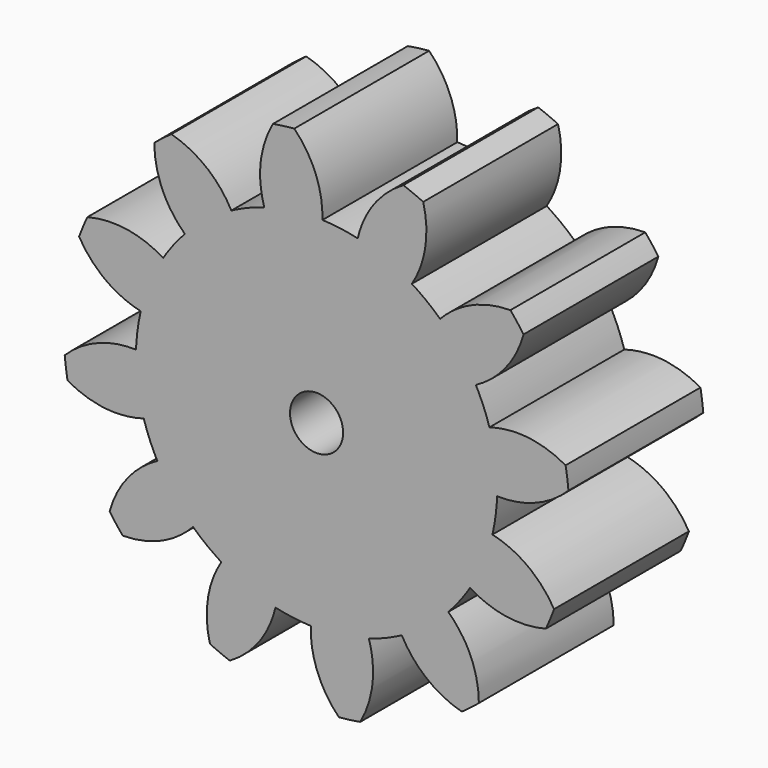
from build123d import *

# Parameters (mm, degrees)
F2_DEPTH = 12.7
F3_COUNT = 12
F3_ANGLE = 330
F5_D     = 8


with BuildPart() as f2:
    # F1 (on Front) → F2 (new body, symmetric)
    with BuildSketch(Plane.XZ):
        with BuildLine():
            Line((0, 27.2142857143), (0, 32.6571428571))
            Line((0, 32.6571428571), (-4.1027982168, 31.163846429))
            Line((-4.1027982168, 31.163846429), (-3.5521770883, 26.9814637274))
            ThreePointArc((-3.5521770883, 26.9814637274), (-1.7798994455, 27.1560178396), (0, 27.2142857143))
        make_face()
        with BuildLine():
            Line((-3.5521770883, 26.9814637274), (-4.1027982168, 31.163846429))
            Line((-4.1027982168, 31.163846429), (-8.4908538679, 29.5667247857))
            ThreePointArc((-8.4908538679, 29.5667247857), (-8.2952422965, 27.7884140488), (-7.8836733992, 26.0473614916))
            ThreePointArc((-7.8836733992, 26.0473614916), (-5.7369683492, 26.6027167992), (-3.5521770883, 26.9814637274))
        make_face()
        with BuildLine():
            Line((-4.1027982168, 31.163846429), (-4.2626125059, 32.3777564729))
            ThreePointArc((-4.2626125059, 32.3777564729), (-6.3710925161, 32.0296450143), (-8.4522905301, 31.5443776985))
            ThreePointArc((-8.4522905301, 31.5443776985), (-8.5050911091, 30.5562048457), (-8.4908538679, 29.5667247857))
            Line((-8.4908538679, 29.5667247857), (-4.1027982168, 31.163846429))
        make_face()
        with BuildLine():
            ThreePointArc((-8.4522905301, 31.5443776985), (-6.3710925161, 32.0296450143), (-4.2626125059, 32.3777564729))
            Line((-4.2626125059, 32.3777564729), (-4.2993944212, 32.6571428571))
            Line((-4.2993944212, 32.6571428571), (-8.3117038653, 32.6571428571))
            ThreePointArc((-8.3117038653, 32.6571428571), (-8.3926831774, 32.1021103437), (-8.4522905301, 31.5443776985))
        make_face()
        with BuildLine():
            Line((-4.1027982168, 31.163846429), (0, 32.6571428571))
            ThreePointArc((0, 32.6571428571), (-2.1358793346, 32.5872214075), (-4.2626125059, 32.3777564729))
            Line((-4.2626125059, 32.3777564729), (-4.1027982168, 31.163846429))
        make_face()
        with BuildLine():
            ThreePointArc((-4.2626125059, 32.3777564729), (-2.1358793346, 32.5872214075), (0, 32.6571428571))
            Line((0, 32.6571428571), (-4.2993944212, 32.6571428571))
            Line((-4.2993944212, 32.6571428571), (-4.2626125059, 32.3777564729))
        make_face()
        with BuildLine():
            ThreePointArc((0, 32.6571428571), (-1.3922286837, 35.486786515), (-3.3594239194, 37.9516043262))
            ThreePointArc((-3.3594239194, 37.9516043262), (-4.1671816864, 37.8714219009), (-4.9730479236, 37.7740492183))
            Line((-4.9730479236, 37.7740492183), (-4.2993944212, 32.6571428571))
            Line((-4.2993944212, 32.6571428571), (0, 32.6571428571))
        make_face()
        with BuildLine():
            Line((-4.2993944212, 32.6571428571), (-4.9730479236, 37.7740492183))
            ThreePointArc((-4.9730479236, 37.7740492183), (-5.7766568393, 37.6595304772), (-6.5776436666, 37.5279176587))
            ThreePointArc((-6.5776436666, 37.5279176587), (-7.661923736, 35.1698741183), (-8.3117038653, 32.6571428571))
            Line((-8.3117038653, 32.6571428571), (-4.2993944212, 32.6571428571))
        make_face()
        with BuildLine():
            ThreePointArc((0.8734905136, 27.2002639925), (0.6971989167, 29.9703946199), (0, 32.6571428571))
            Line((0, 32.6571428571), (0, 27.2142857143))
            ThreePointArc((0, 27.2142857143), (0.4368015242, 27.210780058), (0.8734905136, 27.2002639925))
        make_face()
        with BuildLine():
            ThreePointArc((27.2142857143, 0), (23.1138516304, 14.3654867564), (12.0481915595, 24.4020168651))
            ThreePointArc((12.0481915595, 24.4020168651), (6.8095488061, 19.7367686343), (0, 18.0521428571))
            Line((0, 18.0521428571), (0, 0))
            Line((0, 0), (-2.402809942, 18.2511534992))
            ThreePointArc((-2.402809942, 18.2511534992), (-7.8527791982, 20.3429281496), (-12.0481915595, 24.4020168651))
            ThreePointArc((-12.0481915595, 24.4020168651), (-14.3654867564, -23.1138516304), (27.2142857143, 0))
        make_face()
        with BuildLine():
            ThreePointArc((-7.8836733992, 26.0473614916), (-9.9998299945, 25.3104868981), (-12.0481915595, 24.4020168651))
            ThreePointArc((-12.0481915595, 24.4020168651), (-7.8527791982, 20.3429281496), (-2.402809942, 18.2511534992))
            Line((-2.402809942, 18.2511534992), (-3.5521770883, 26.9814637274))
            ThreePointArc((-3.5521770883, 26.9814637274), (-5.7369683492, 26.6027167992), (-7.8836733992, 26.0473614916))
        make_face()
        with BuildLine():
            Line((0, 18.0521428571), (0, 27.2142857143))
            ThreePointArc((0, 27.2142857143), (-1.7798994455, 27.1560178396), (-3.5521770883, 26.9814637274))
            Line((-3.5521770883, 26.9814637274), (-2.402809942, 18.2511534992))
            ThreePointArc((-2.402809942, 18.2511534992), (-1.2055186491, 18.10198055), (0, 18.0521428571))
        make_face()
        with BuildLine():
            Line((0, 0), (0, 18.0521428571))
            ThreePointArc((0, 18.0521428571), (-1.2055186491, 18.10198055), (-2.402809942, 18.2511534992))
            Line((-2.402809942, 18.2511534992), (0, 0))
        make_face()
        with BuildLine():
            ThreePointArc((0.8734905136, 27.2002639925), (0.4368015242, 27.210780058), (0, 27.2142857143))
            Line((0, 27.2142857143), (0, 18.0521428571))
            ThreePointArc((0, 18.0521428571), (6.8095488061, 19.7367686343), (12.0481915595, 24.4020168651))
            ThreePointArc((12.0481915595, 24.4020168651), (6.6105985846, 26.399191906), (0.8734905136, 27.2002639925))
        make_face()
    extrude(amount=F2_DEPTH, both=True)

    # F3: F2 ×12 about axis
    f3_axis = Axis((0, 0, 0), (0, -1, 0))


with BuildPart() as f2_1:
    add(f2.part)
    for i in range(1, F3_COUNT):
        add(f2.part.rotate(f3_axis, i * F3_ANGLE / (F3_COUNT - 1)))

    # F5 (through all)
    with Locations(Plane.XZ.offset(12.7)):
        with Locations((0, 0)):
            Hole(F5_D / 2)


solid = f2_1.part
